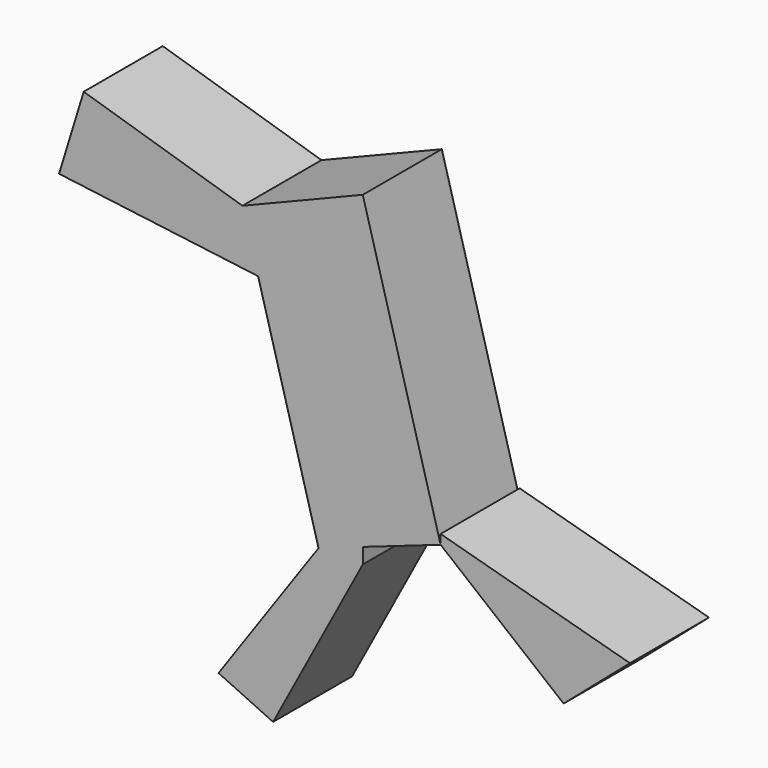
from build123d import *

# Parameters (mm, degrees)
F1_DEPTH = 25.4


with BuildPart() as f1:
    # F0 (on Front) → F1 (new body)
    with BuildSketch(Plane.XZ):
        Polygon((13.4020768706, -26.5226121992), (13.4020768706, -28.9758306295), (45.0187511742, -54.6410158277), (62.059186399, -39.9421006441), align=None)
    extrude(amount=F1_DEPTH)


with BuildPart() as f1b:
    # F0 (on Front) → F1, piece 2 (new body)
    with BuildSketch(Plane.XZ):
        Polygon((-33.5108636741, 16.5349727489), (-37.5378616154, 31.1659555882), (-78.325048089, 43.704111129), (-84.6663658156, 23.075518051), align=None)
        Polygon((-6.6021825187, -35.9692590704), (-17.9662443697, -39.9421006441), (-43.672464788, -76.5730142593), (-29.6469852328, -83.0651968718), (-6.6021825187, -39.9421006441), align=None)
        Polygon((-6.6021825187, 43.704111129), (-37.5378616154, 31.1659555882), (-33.5108636741, 16.5349727489), (-17.9662443697, -39.9421006441), (-6.6021825187, -35.9692590704), (13.4020768706, -28.9758306295), align=None)
    extrude(amount=F1_DEPTH)


solid = Compound([f1.part, f1b.part])
